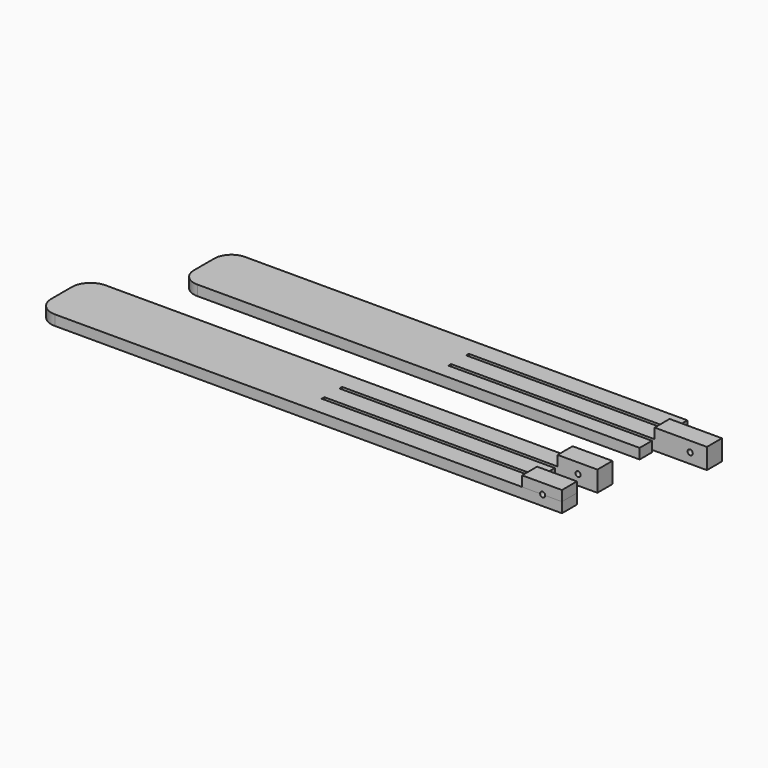
from build123d import *

# Parameters (mm, degrees)
F1_DEPTH  = 6
F2_R      = 10
F3_W      = 30.655736
F3_H      = 11
F4_DEPTH  = 6
F5_R      = 1.525335
F6_DEPTH  = 11.4
F8_DEPTH  = 6
F9_R      = 11
F10_W     = 23.323752
F10_H     = 11
F10_W_2   = 23.339573
F10_H_2   = 10.997629
F11_DEPTH = 6
F12_R     = 1.501704
F13_DEPTH = 46


with BuildPart() as f1:
    # F0 (on Top) → F1 (new body)
    with BuildSketch(Plane.XY):
        Polygon((119.344264, 17.5), (-150, 17.5), (-150, -17.5), (119.344264, -17.5), (119.344264, -8.5), (0, -8.5), (0, -6.5), (150, -6.5), (150, 4.5), (0, 4.5), (0, 6.5), (119.344264, 6.5), align=None)
    extrude(amount=F1_DEPTH)

    # F2
    f2_edges = [f1.edges().sort_by_distance(p)[0] for p in [
        (-150, -17.5, 3),
        (-150, 17.5, 3),
    ]]
    fillet(f2_edges, radius=F2_R)

    # F3 (on face) → F4 (join)
    with BuildSketch(Plane.XY.offset(6)):
        with Locations((134.672132, -1)):
            Rectangle(F3_W, F3_H)
    extrude(amount=F4_DEPTH)

    # F5 (on face) → F6 (cut)
    with BuildSketch(Plane.XZ.offset(6.5)):
        with Locations((140.18032, 5.98348)):
            Circle(F5_R)
    extrude(amount=-F6_DEPTH, mode=Mode.SUBTRACT)


with BuildPart() as f8:
    # F7 (on Top) → F8 (new body)
    with BuildSketch(Plane.XY):
        Polygon((124.879688, -44.37155), (-183.285194, -44.37155), (-183.285194, -81.356347), (124.879688, -81.356347), (124.879688, -70.356347), (-24.778922, -70.37155), (-24.778922, -68.37155), (101.540115, -68.37155), (101.540115, -57.37155), (-24.778922, -57.37155), (-24.778922, -55.37155), (124.879688, -55.37155), align=None)
    extrude(amount=F8_DEPTH)

    # F9
    f9_edges = [f8.edges().sort_by_distance(p)[0] for p in [
        (-183.285194, -81.356347, 3),
        (-183.285194, -44.37155, 3),
    ]]
    fillet(f9_edges, radius=F9_R)

    # F10 (on face) → F11 (join)
    with BuildSketch(Plane.XY.offset(6)):
        with Locations((113.217812, -49.87155)):
            Rectangle(F10_W, F10_H)
        with Locations((113.209902, -75.857532)):
            Rectangle(F10_W_2, F10_H_2)
    extrude(amount=F11_DEPTH)

    # F12 (on face) → F13 (cut)
    with BuildSketch(Plane.XZ.offset(81.356347)):
        with Locations((113.570727, 6)):
            Circle(F12_R)
    extrude(amount=-F13_DEPTH, mode=Mode.SUBTRACT)


solid = Compound([f1.part, f8.part])
